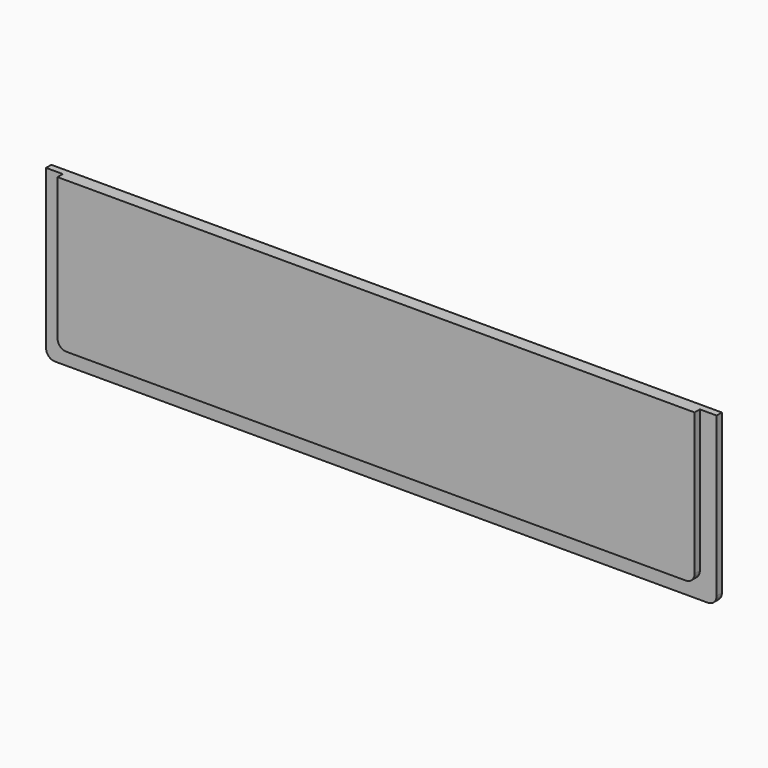
from build123d import *

# Parameters (mm, degrees)
F0_W     = 152
F0_H     = 38
F1_DEPTH = 3
F3_DEPTH = 1.5
F4_R     = 2


with BuildPart() as f1:
    # F0 (on Front) → F1 (new body)
    with BuildSketch(Plane.XZ):
        Rectangle(F0_W, F0_H)
    extrude(amount=F1_DEPTH)

    # F2 (on face) → F3 (cut)
    with BuildSketch(Plane.XZ.offset(3)):
        Polygon((-72.2, 19), (-76, 19), (-76, -19), (76, -19), (76, 19), (72.2, 19), (72.2, -15.2), (-72.2, -15.2), align=None)
    extrude(amount=-F3_DEPTH, mode=Mode.SUBTRACT)

    # F4
    f4_edges = [f1.edges().sort_by_distance(p)[0] for p in [
        (76, -0.75, -19),
        (72.2, -2.25, -15.2),
        (-76, -0.75, -19),
        (-72.2, -2.25, -15.2),
    ]]
    fillet(f4_edges, radius=F4_R)


solid = f1.part
